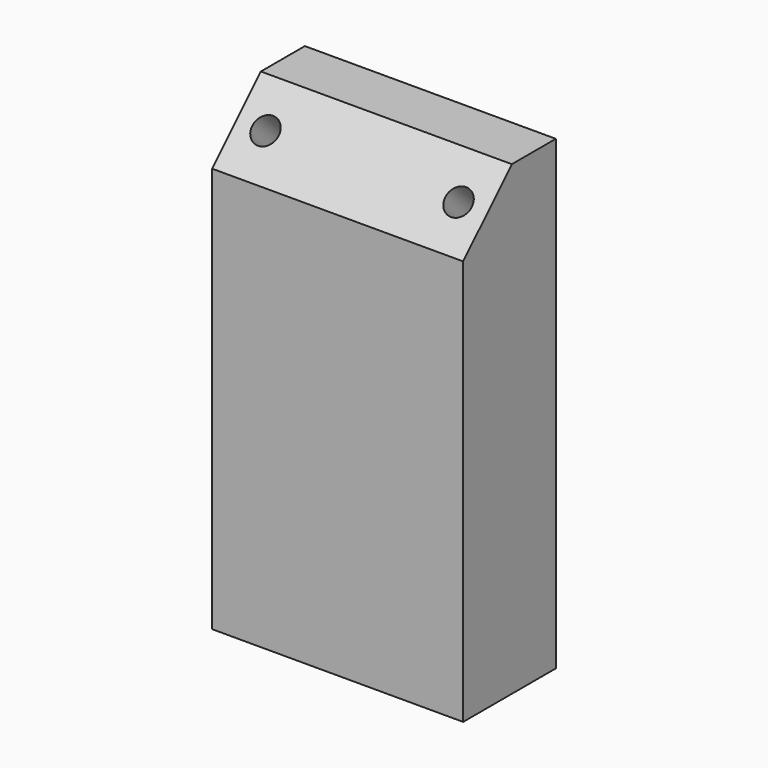
from build123d import *

# Parameters (mm, degrees)
F0_W     = 82.55
F0_H     = 38.1
F1_DEPTH = 153.3652
F2_SIZE2 = 20.0152
F2_SIZE  = 20.0152
F4_D     = 8.7376
F4_DEPTH = 25.4
F4_TIP   = 2.6250398724
F6_D     = 8.7376
F6_DEPTH = 25.4
F6_TIP   = 2.6250398724


with BuildPart() as f1:
    # F0 (on Top) → F1 (new body)
    with BuildSketch(Plane.XY):
        with Locations((41.275, 19.05)):
            Rectangle(F0_W, F0_H)
    extrude(amount=F1_DEPTH)

    # F2
    f2_edges = [f1.edges().sort_by_distance(p)[0] for p in [
        (41.275, 0, 153.3652),
    ]]
    chamfer(f2_edges, length=F2_SIZE, length2=F2_SIZE2)

    # F4
    with Locations(Plane(origin=(0, -66.675, 66.675), x_dir=(1, 0, 0), z_dir=(0, -0.7071067812, 0.7071067812))):
        with Locations((9.525, 108.4455765648), (73.025, 108.4455765648)):
            Hole(F4_D / 2, depth=F4_DEPTH)
            with Locations((0, 0, -(F4_DEPTH + F4_TIP / 2))):  # 118° drill point
                Cone(0, F4_D / 2, F4_TIP, mode=Mode.SUBTRACT)

    # F6
    with Locations(Plane(origin=(0, 0, 0), x_dir=(1, 0, 0), z_dir=(0, 0, -1))):
        with Locations((9.525, -19.05), (73.025, -19.05)):
            Hole(F6_D / 2, depth=F6_DEPTH)
            with Locations((0, 0, -(F6_DEPTH + F6_TIP / 2))):  # 118° drill point
                Cone(0, F6_D / 2, F6_TIP, mode=Mode.SUBTRACT)


solid = f1.part
